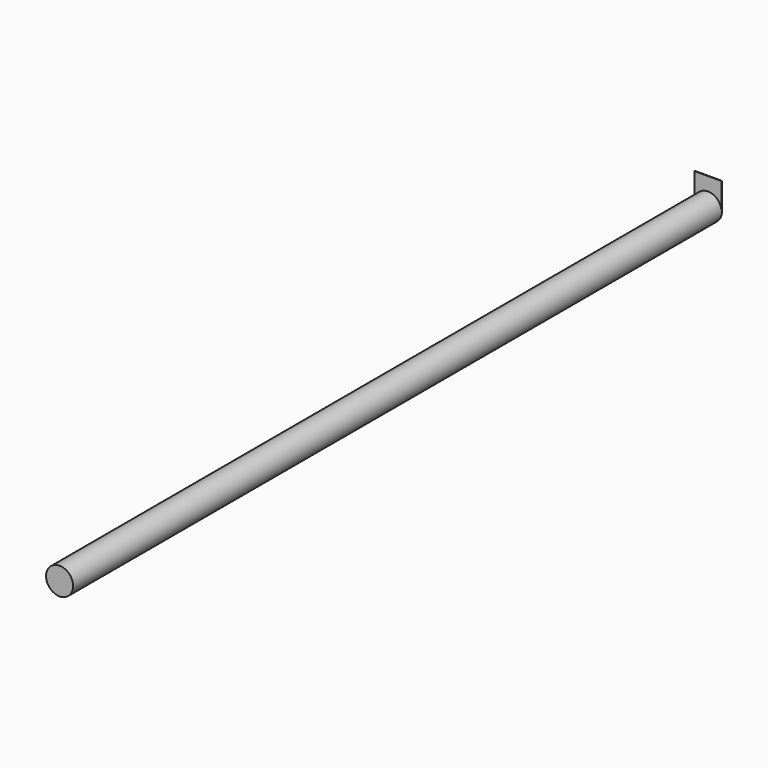
from build123d import *

# Parameters (mm, degrees)
F0_R      = 6.35
F1_DEPTH  = 127
F1_FACE_R = 6.35
F2_DEPTH  = 254
F4_DEPTH  = 0.254


with BuildPart() as f1:
    # F0 (on Front) → F1 (new body)
    with BuildSketch(Plane.XZ):
        Circle(F0_R)
    extrude(amount=F1_DEPTH)

    # F1_face (on face) → F2 (join)
    with BuildSketch(Plane(origin=(0, 0, 0), x_dir=(1, 0, 0), z_dir=(0, 1, 0))):
        Circle(F1_FACE_R)
    extrude(amount=F2_DEPTH)

    # F3 (on face) → F4 (join)
    with BuildSketch(Plane(origin=(0, 254, 0), x_dir=(-1, 0, 0), z_dir=(0, 1, 0))):
        with BuildLine():
            Line((6.35, 12.7), (-6.35, 12.7))
            Line((-6.35, 12.7), (-6.35, 0))
            ThreePointArc((-6.35, 0), (0, 6.35), (6.35, 0))
            Line((6.35, 0), (6.35, 12.7))
        make_face()
    extrude(amount=-F4_DEPTH)


solid = f1.part
